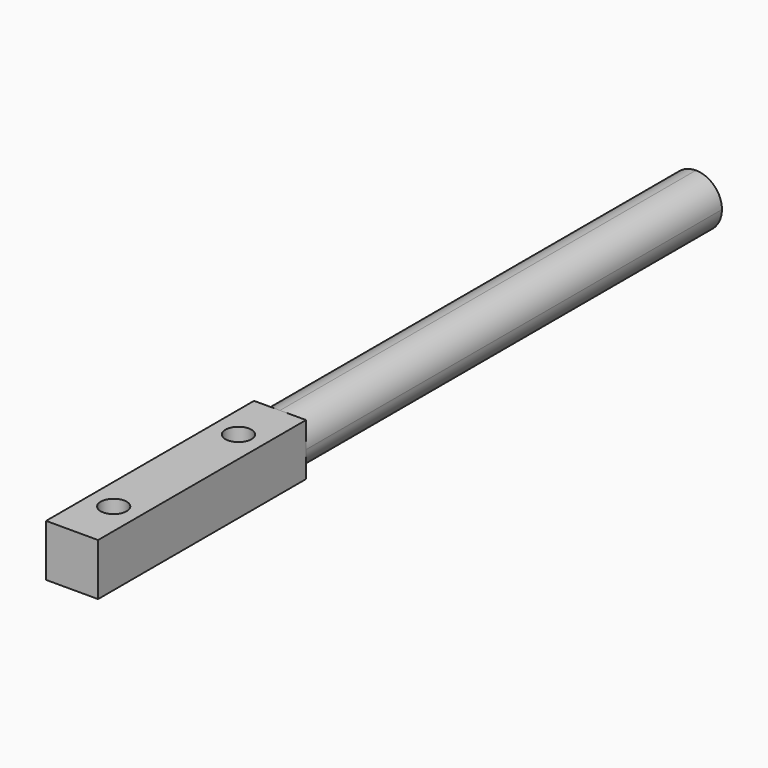
from build123d import *

# Parameters (mm, degrees)
F0_W          = 12.7
F0_H          = 12.7
F1_DEPTH      = 12.7
F1_DEPTH_BACK = 177.8
F3_DEPTH      = 127
F4_R          = 6.35
F5_DEPTH      = 127
F6_R          = 3.175
F7_DEPTH      = 25.4


with BuildPart() as f1:
    # F0 (on Front) → F1 (new body, two sides)
    with BuildSketch(Plane.XZ) as f1_sk:
        Rectangle(F0_W, F0_H)
    extrude(amount=F1_DEPTH)
    extrude(f1_sk.sketch, amount=-F1_DEPTH_BACK)

    # F2 (on face) → F3 (cut)
    with BuildSketch(Plane(origin=(0, 177.8, 0), x_dir=(-1, 0, 0), z_dir=(0, 1, 0))):
        with BuildLine():
            Line((6.35, -6.35), (6.35, 0))
            ThreePointArc((6.35, 0), (4.490128, -4.490128), (0, -6.35))
            Line((0, -6.35), (6.35, -6.35))
        make_face()
        with BuildLine():
            ThreePointArc((0, 6.35), (4.490128, 4.490128), (6.35, 0))
            Line((6.35, 0), (6.35, 6.35))
            Line((6.35, 6.35), (0, 6.35))
        make_face()
        with BuildLine():
            ThreePointArc((-6.35, 0), (-4.490128, 4.490128), (0, 6.35))
            Line((0, 6.35), (-6.35, 6.35))
            Line((-6.35, 6.35), (-6.35, 0))
        make_face()
        with BuildLine():
            Line((-6.35, -6.35), (0, -6.35))
            ThreePointArc((0, -6.35), (-4.490128, -4.490128), (-6.35, 0))
            Line((-6.35, 0), (-6.35, -6.35))
        make_face()
    extrude(amount=-F3_DEPTH, mode=Mode.SUBTRACT)

    # F4 (on face) → F5 (join)
    with BuildSketch(Plane(origin=(0, 50.8, 0), x_dir=(-1, 0, 0), z_dir=(0, 1, 0))):
        Circle(F4_R)
    extrude(amount=F5_DEPTH)

    # F6 (on face) → F7 (cut)
    with BuildSketch(Plane.XY.offset(6.35)):
        with Locations((0, 38.1)):
            Circle(F6_R)
        Circle(F6_R)
    extrude(amount=-F7_DEPTH, mode=Mode.SUBTRACT)


solid = f1.part
